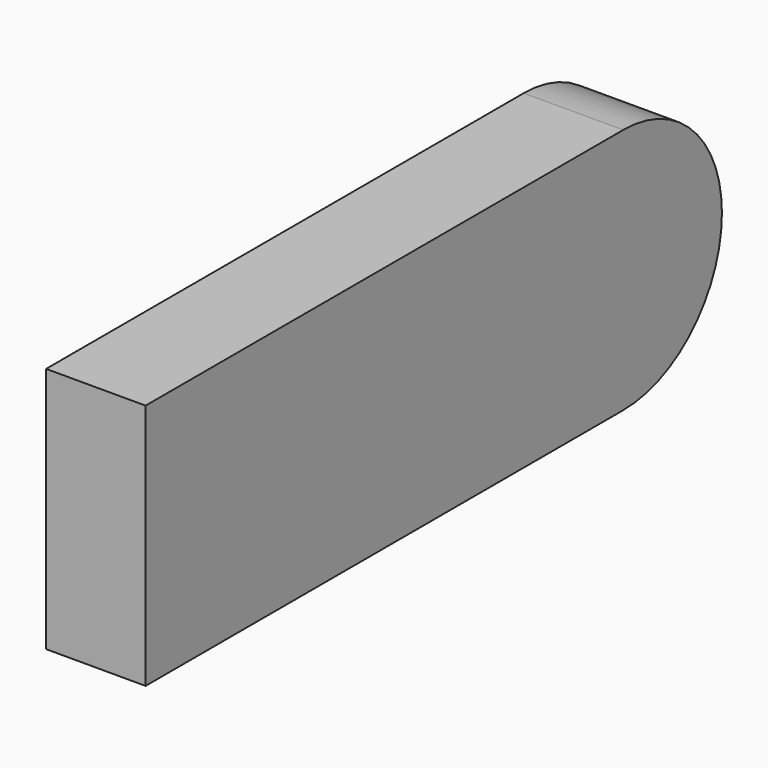
from build123d import *

# Parameters (mm, degrees)
F0_W     = 76.2
F0_H     = 31.496
F1_DEPTH = 12.7


with BuildPart() as f1:
    # F0 (on Right) → F1 (new body)
    with BuildSketch(Plane.YZ):
        with Locations((-19.0725, 46.618)):
            Rectangle(F0_W, F0_H)
        with BuildLine():
            ThreePointArc((19.0275, 30.87), (34.7755, 46.618), (19.0275, 62.366))
            Line((19.0275, 62.366), (19.0275, 30.87))
        make_face()
    extrude(amount=F1_DEPTH)


solid = f1.part
